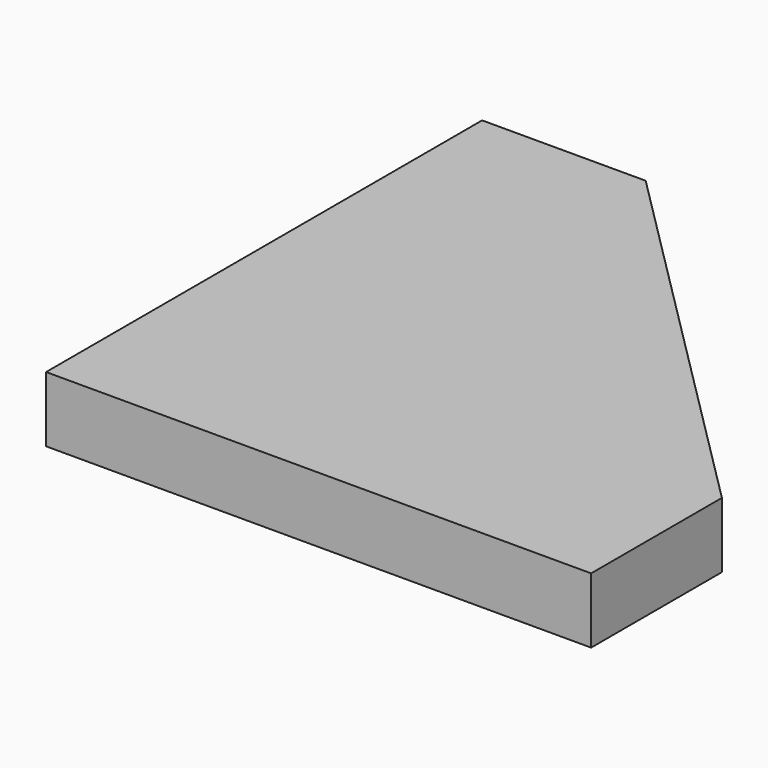
from build123d import *

# Parameters (mm, degrees)
F1_DEPTH = 6


with BuildPart() as f1:
    # F0 (on Top) → F1 (new body)
    with BuildSketch(Plane.XY):
        Polygon((-33.457938, -5.590482), (-40.954886, 1.906467), (-40.954886, -48.093533), (9.045114, -48.093533), align=None)
        Polygon((-25.954887, 1.911273), (-40.954886, 1.906467), (-33.457938, -5.590482), align=None)
        Polygon((-25.954887, 1.911273), (-33.457938, -5.590482), (9.045114, -48.093533), (9.043877, -33.093533), align=None)
    extrude(amount=F1_DEPTH)


solid = f1.part
